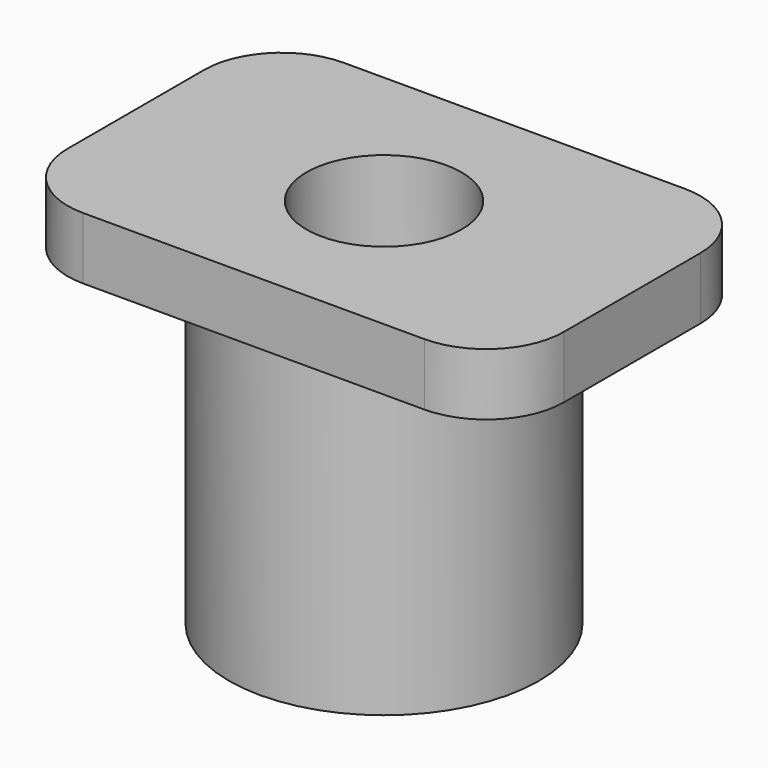
from build123d import *

# Parameters (mm, degrees)
F0_R     = 10
F1_DEPTH = 20
F2_W     = 32
F2_H     = 21
F3_DEPTH = 4
F4_R     = 5
F5_DEPTH = 25
F6_R     = 5


with BuildPart() as f1:
    # F0 (on Top) → F1 (new body)
    with BuildSketch(Plane.XY):
        Circle(F0_R)
    extrude(amount=F1_DEPTH)

    # F2 (on face) → F3 (join)
    with BuildSketch(Plane.XY.offset(20)):
        Rectangle(F2_W, F2_H)
    extrude(amount=F3_DEPTH)

    # F4 (on face) → F5 (cut)
    with BuildSketch(Plane.XY.offset(24)):
        Circle(F4_R)
    extrude(amount=-F5_DEPTH, mode=Mode.SUBTRACT)

    # F6
    f6_edges = [f1.edges().sort_by_distance(p)[0] for p in [
        (16, 10.5, 22),
        (-16, 10.5, 22),
        (-16, -10.5, 22),
        (16, -10.5, 22),
    ]]
    fillet(f6_edges, radius=F6_R)


solid = f1.part
